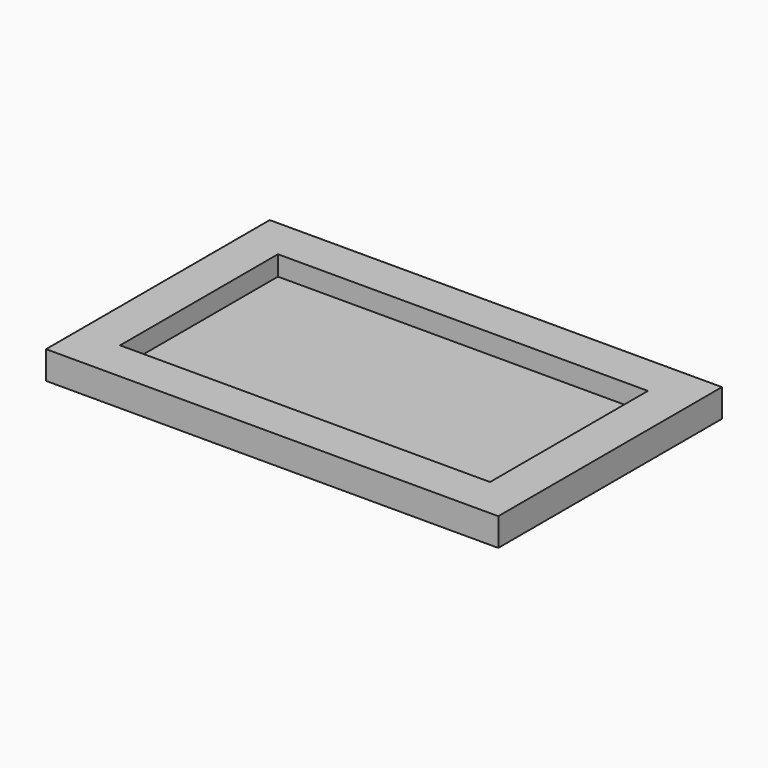
from build123d import *

# Parameters (mm, degrees)
BOX001_W     = 45
BOX001_H     = 24
BOX001_DEPTH = 2.4
BOX_W        = 55
BOX_H        = 34
BOX_DEPTH    = 3.4


with BuildPart() as extraction_cube:
    # Box001 → Box001 (new body)
    with BuildSketch(Plane(origin=(5, 5, 1), x_dir=(1, 0, 0), z_dir=(0, 0, 1))):
        with Locations((22.5, 12)):
            Rectangle(BOX001_W, BOX001_H)
    extrude(amount=BOX001_DEPTH)


with BuildPart() as obj1:
    # Box → Box (new body)
    with BuildSketch(Plane.XY):
        with Locations((27.5, 17)):
            Rectangle(BOX_W, BOX_H)
    extrude(amount=BOX_DEPTH)

    # Cut: cut extraction cube
    add(extraction_cube.part, mode=Mode.SUBTRACT)


solid = obj1.part
